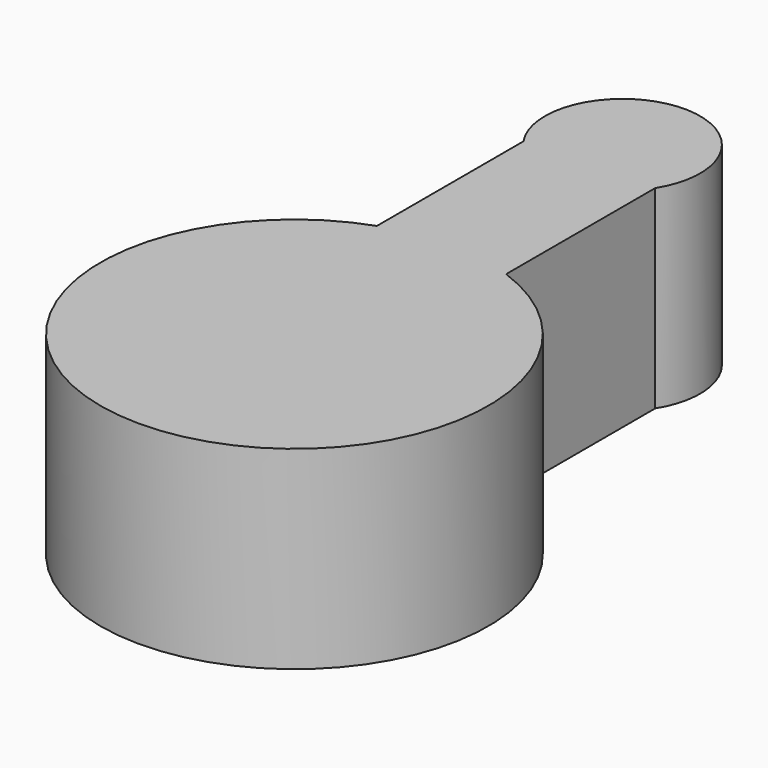
from build123d import *

# Parameters (mm, degrees)
F1_DEPTH = 25


with BuildPart() as f1:
    # F0 (on Top) → F1 (new body)
    with BuildSketch(Plane.XY):
        with BuildLine():
            Line((-8.251201, 47.21136), (-8.251201, 23.599104))
            ThreePointArc((-8.251201, 23.599104), (-0.113977, -24.99974), (8.466036, 23.522887))
            Line((8.466036, 23.522887), (8.466036, 47.538695))
            ThreePointArc((8.466036, 47.538695), (-0.195769, 62.859018), (-8.251201, 47.21136))
        make_face()
        with BuildLine():
            Line((-8.251201, 47.21136), (-8.251201, 23.599104))
            ThreePointArc((-8.251201, 23.599104), (-0.113977, -24.99974), (8.466036, 23.522887))
            Line((8.466036, 23.522887), (8.466036, 47.538695))
            ThreePointArc((8.466036, 47.538695), (-0.195769, 62.859018), (-8.251201, 47.21136))
        make_face()
    extrude(amount=F1_DEPTH)


solid = f1.part
